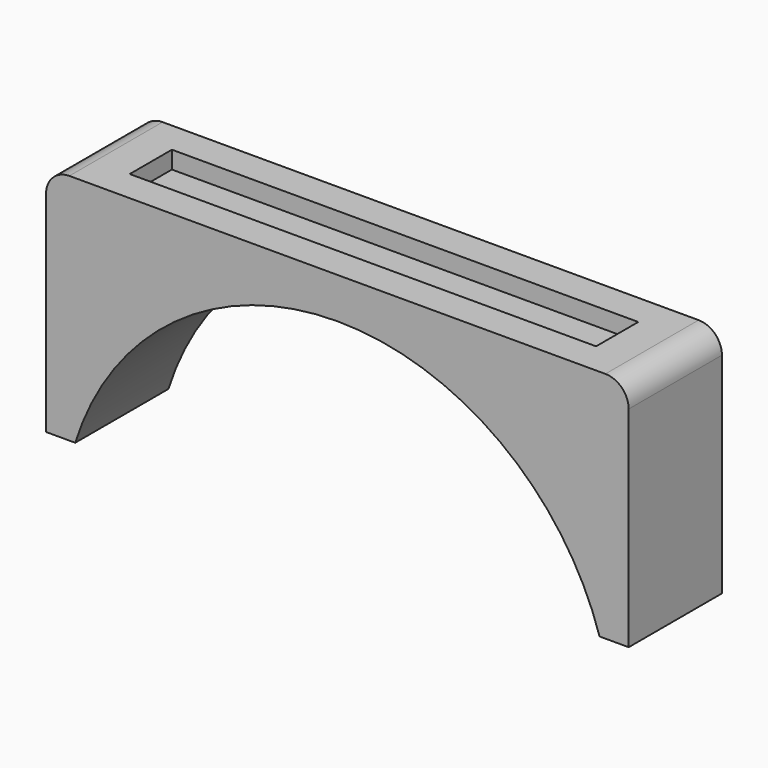
from build123d import *

# Parameters (mm, degrees)
F0_W     = 127
F0_H     = 25.4
F1_DEPTH = 50.8
F2_W     = 101.6635
F2_H     = 11.4935
F3_DEPTH = 3.81
F5_DEPTH = 50.8
F6_R     = 5.08


with BuildPart() as f1:
    # F0 (on Top) → F1 (new body)
    with BuildSketch(Plane.XY):
        Rectangle(F0_W, F0_H)
    extrude(amount=F1_DEPTH)

    # F2 (on face) → F3 (cut)
    with BuildSketch(Plane.XY.offset(50.8)):
        Rectangle(F2_W, F2_H)
    extrude(amount=-F3_DEPTH, mode=Mode.SUBTRACT)

    # F4 (on face) → F5 (cut)
    with BuildSketch(Plane.XZ.offset(12.7)):
        with BuildLine():
            Line((-57.15, 0), (57.15, 0))
            ThreePointArc((57.15, 0), (0, 41.91), (-57.15, 0))
        make_face()
    extrude(amount=-F5_DEPTH, mode=Mode.SUBTRACT)

    # F6
    f6_edges = [f1.edges().sort_by_distance(p)[0] for p in [
        (-63.5, 0, 50.8),
        (63.5, 0, 50.8),
    ]]
    fillet(f6_edges, radius=F6_R)


solid = f1.part
